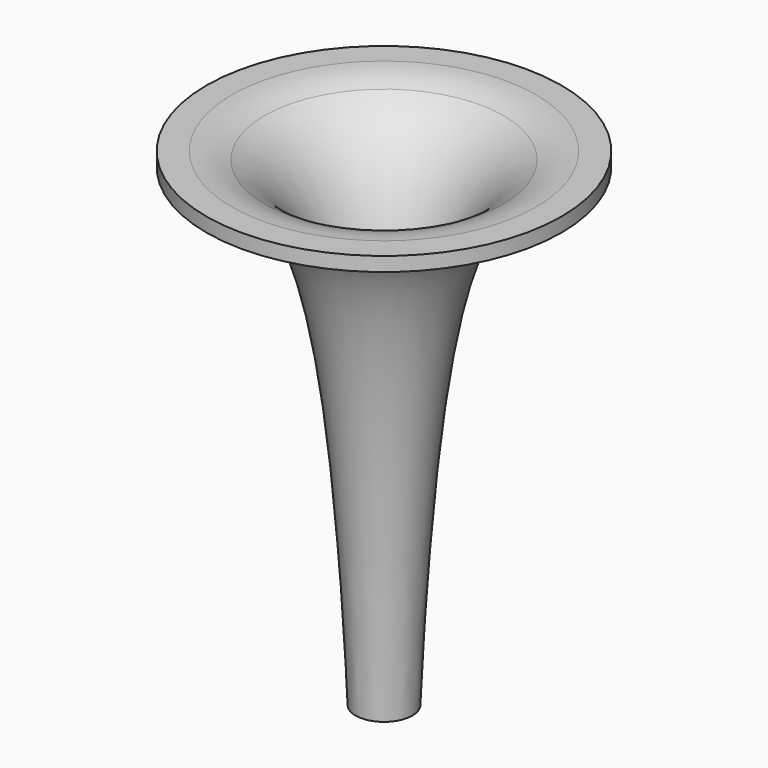
from build123d import *

# Parameters (mm, degrees)
F2_R = 10


with BuildPart() as f1:
    # F0 (on Front) → F1 (revolve)
    with BuildSketch(Plane.XZ):
        with BuildLine():
            add(Edge.make_bspline(
                [(20, 34.3476161361), (16.572451219, 33.6890481412), (4.0384777557, 25.9119960632), (3.3855754882, -11.8736205623), (2, -34.3476161361)],
                knots=[0, 0, 0, 0, 0.3205266216, 1, 1, 1, 1], degree=3))
            Line((2, -34.3476161361), (4, -34.3476161361))
            add(Edge.make_bspline(
                [(18.7330910384, 32.3476161361), (15.7508764555, 30.3847312829), (7.1686760292, 22.4325523421), (4.9826926072, -12.5562043632), (4, -34.3476161361)],
                knots=[0.0842401324, 0.0842401324, 0.0842401324, 0.0842401324, 0.3326451093, 1, 1, 1, 1], degree=3))
            add(Edge.make_bspline(
                [(20, 33.1504431344), (19.5650260003, 32.8833956516), (19.1428818143, 32.6173392176), (18.7330910384, 32.3476161361)],
                knots=[0.0501064155, 0.0501064155, 0.0501064155, 0.0501064155, 0.0842401324, 0.0842401324, 0.0842401324, 0.0842401324], degree=3))
            Line((20, 33.1504431344), (20, 34.3476161361))
        make_face()
        with BuildLine():
            Line((22, 34.3476161361), (20, 34.3476161361))
            Line((20, 34.3476161361), (20, 33.1504431344))
            add(Edge.make_bspline(
                [(22, 34.3476161361), (21.3046822063, 33.9366006866), (20.6385178627, 33.5424541238), (20, 33.1504431344)],
                knots=[0, 0, 0, 0, 0.0501064155, 0.0501064155, 0.0501064155, 0.0501064155], degree=3))
        make_face()
        with BuildLine():
            add(Edge.make_bspline(
                [(20, 33.1504431344), (19.5650260003, 32.8833956516), (19.1428818143, 32.6173392176), (18.7330910384, 32.3476161361)],
                knots=[0.0501064155, 0.0501064155, 0.0501064155, 0.0501064155, 0.0842401324, 0.0842401324, 0.0842401324, 0.0842401324], degree=3))
            Line((18.7330910384, 32.3476161361), (20, 32.3476161361))
            Line((20, 32.3476161361), (20, 33.1504431344))
        make_face()
        with BuildLine():
            Line((25, 34.3476161361), (22, 34.3476161361))
            add(Edge.make_bspline(
                [(22, 34.3476161361), (21.3046822063, 33.9366006866), (20.6385178627, 33.5424541238), (20, 33.1504431344)],
                knots=[0, 0, 0, 0, 0.0501064155, 0.0501064155, 0.0501064155, 0.0501064155], degree=3))
            Line((20, 33.1504431344), (20, 32.3476161361))
            Line((20, 32.3476161361), (25, 32.3476161361))
            Line((25, 32.3476161361), (25, 34.3476161361))
        make_face()
    revolve(axis=Axis((0, 0, 0), (0, 0, -1)))

    # F2
    f2_edges = [f1.edges().sort_by_distance(p)[0] for p in [
        (-20, 0, 34.347616),
    ]]
    fillet(f2_edges, radius=F2_R)


solid = f1.part
